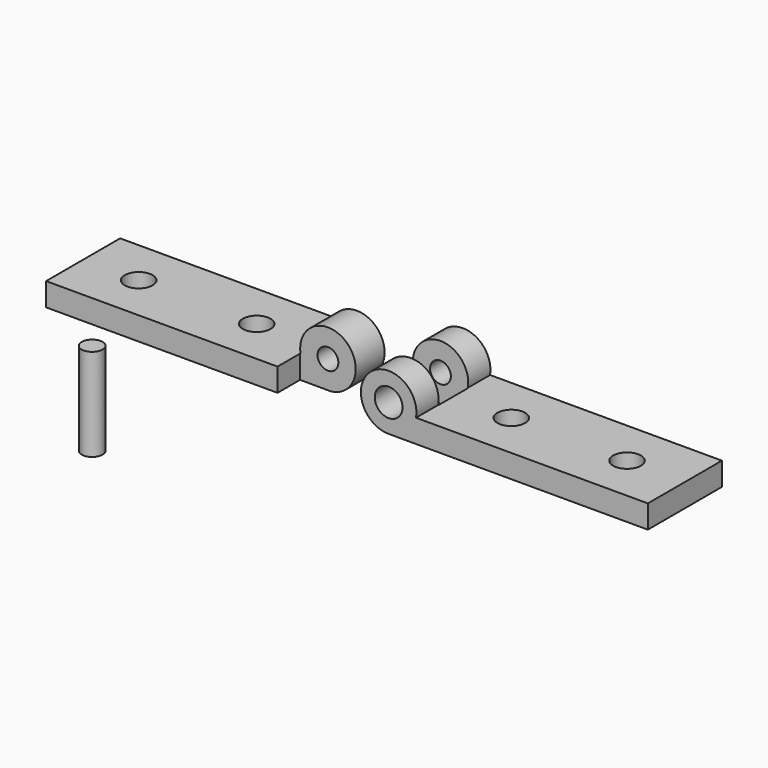
from build123d import *

# Parameters (mm, degrees)
F0_W      = 50
F0_H      = 20
F0_R      = 3
F1_DEPTH  = 5
F2_R      = 3
F3_DEPTH  = 6
F4_R      = 3
F5_DEPTH  = 6
F6_R      = 2.25
F7_DEPTH  = 13.9
F8_DEPTH  = 6.1
F9_R      = 2.25
F10_DEPTH = 20
F4_R_2    = 2.25
F11_DEPTH = 6


with BuildPart() as f1:
    # F0 (on Top) → F1 (new body)
    with BuildSketch(Plane.XY):
        Rectangle(F0_W, F0_H)
        with Locations((-12.5, 0)):
            Circle(F0_R, mode=Mode.SUBTRACT)
        with Locations((12.5, 0)):
            Circle(F0_R, mode=Mode.SUBTRACT)
        with Locations((-80, 0)):
            Rectangle(F0_W, F0_H)
        with Locations((-93, 0)):
            Circle(F0_R, mode=Mode.SUBTRACT)
        with Locations((-67.5, 0)):
            Circle(F0_R, mode=Mode.SUBTRACT)
    extrude(amount=F1_DEPTH)

    # F2 (on face) → F3 (join)
    with BuildSketch(Plane.XZ.offset(10)):
        with BuildLine():
            Line((-25, 5), (-25.08392, 5))
            ThreePointArc((-25.08392, 5), (-34.872983, 10.582576), (-31, 0))
            Line((-31, 0), (-25, 0))
            Line((-25, 0), (-25, 5))
        make_face()
        with Locations((-31, 6)):
            Circle(F2_R, mode=Mode.SUBTRACT)
    extrude(amount=-F3_DEPTH)

    # F4 (on face) → F5 (join)
    with BuildSketch(Plane(origin=(0, 10, 0), x_dir=(-1, 0, 0), z_dir=(0, 1, 0))):
        with BuildLine():
            Line((25.08392, 5), (25, 5))
            Line((25, 5), (25, 0))
            Line((25, 0), (31, 0))
            ThreePointArc((31, 0), (34.872983, 10.582576), (25.08392, 5))
        make_face()
        with Locations((31, 6)):
            Circle(F4_R, mode=Mode.SUBTRACT)
    extrude(amount=-F5_DEPTH)

    # F6 (on face) → F7 (join)
    with BuildSketch(Plane(origin=(0, 10, 0), x_dir=(-1, 0, 0), z_dir=(0, 1, 0))):
        with BuildLine():
            Line((55, 0), (55, 5))
            Line((55, 5), (54.91608, 5))
            ThreePointArc((54.91608, 5), (45.278929, 10.655691), (48.514497, -0.039757))
            Line((48.514497, -0.039757), (55, 0))
        make_face()
        with Locations((48.990384, 5.94134)):
            Circle(F6_R, mode=Mode.SUBTRACT)
    extrude(amount=-F7_DEPTH)

    # F6 (on face) → F8 (cut)
    with BuildSketch(Plane(origin=(0, 10, 0), x_dir=(-1, 0, 0), z_dir=(0, 1, 0))):
        with BuildLine():
            Line((55, 0), (55, 5))
            Line((55, 5), (54.91608, 5))
            ThreePointArc((54.91608, 5), (45.278929, 10.655691), (48.514497, -0.039757))
            Line((48.514497, -0.039757), (55, 0))
        make_face()
        with Locations((48.990384, 5.94134)):
            Circle(F6_R, mode=Mode.SUBTRACT)
    extrude(amount=-F8_DEPTH, mode=Mode.SUBTRACT)

    # F4 (on face) → F11 (join)
    with BuildSketch(Plane(origin=(0, 10, 0), x_dir=(-1, 0, 0), z_dir=(0, 1, 0))):
        with Locations((31, 6)):
            Circle(F4_R)
        with Locations((31, 6)):
            Circle(F4_R_2, mode=Mode.SUBTRACT)
    extrude(amount=-F11_DEPTH)


with BuildPart() as f10:
    # F9 (on Top) → F10 (new body)
    with BuildSketch(Plane.XY):
        with Locations((-66.18803, -46.083119)):
            Circle(F9_R)
    extrude(amount=F10_DEPTH)


solid = Compound([f1.part, f10.part])
